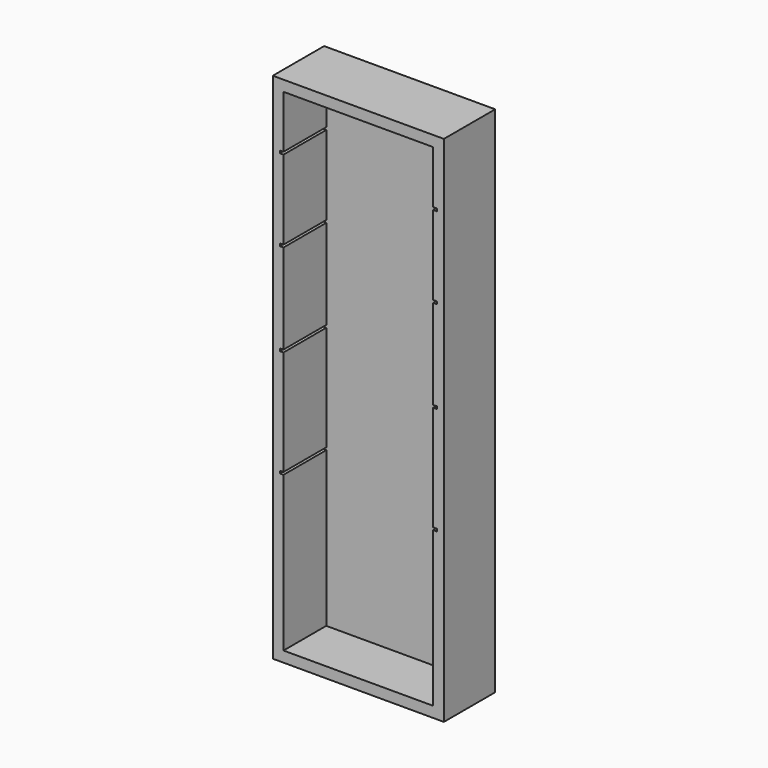
from build123d import *

# Parameters (mm, degrees)
F0_W     = 304.8
F0_H     = 914.4
F0_W_2   = 266.7
F0_H_2   = 876.3
F1_DEPTH = 114.3
F2_W     = 304.8
F2_H     = 914.4
F3_DEPTH = 19.05
F4_W     = 6.35
F4_H     = 4.445
F5_DEPTH = 95.25


with BuildPart() as f1:
    # F0 (on Front) → F1 (new body)
    with BuildSketch(Plane.XZ):
        Rectangle(F0_W, F0_H)
        Rectangle(F0_W_2, F0_H_2, mode=Mode.SUBTRACT)
    extrude(amount=F1_DEPTH)

    # F2 (on face) → F3 (join)
    with BuildSketch(Plane(origin=(0, 0, 0), x_dir=(-1, 0, 0), z_dir=(0, 1, 0))):
        Rectangle(F2_W, F2_H)
    extrude(amount=-F3_DEPTH)

    # F4 (on face) → F5 (cut)
    with BuildSketch(Plane.XZ.offset(114.3)):
        with Locations((-136.525, 341.822318)):
            Rectangle(F4_W, F4_H)
        with Locations((-136.525, 196.148134)):
            Rectangle(F4_W, F4_H)
        with Locations((-136.525, 31.573584)):
            Rectangle(F4_W, F4_H)
        with Locations((-136.525, -160.389908)):
            Rectangle(F4_W, F4_H)
        with Locations((136.525, 196.148134)):
            Rectangle(F4_W, F4_H)
        with Locations((136.525, 341.822318)):
            Rectangle(F4_W, F4_H)
        with Locations((136.525, -160.389908)):
            Rectangle(F4_W, F4_H)
        with Locations((136.525, 31.573584)):
            Rectangle(F4_W, F4_H)
    extrude(amount=-F5_DEPTH, mode=Mode.SUBTRACT)


solid = f1.part
